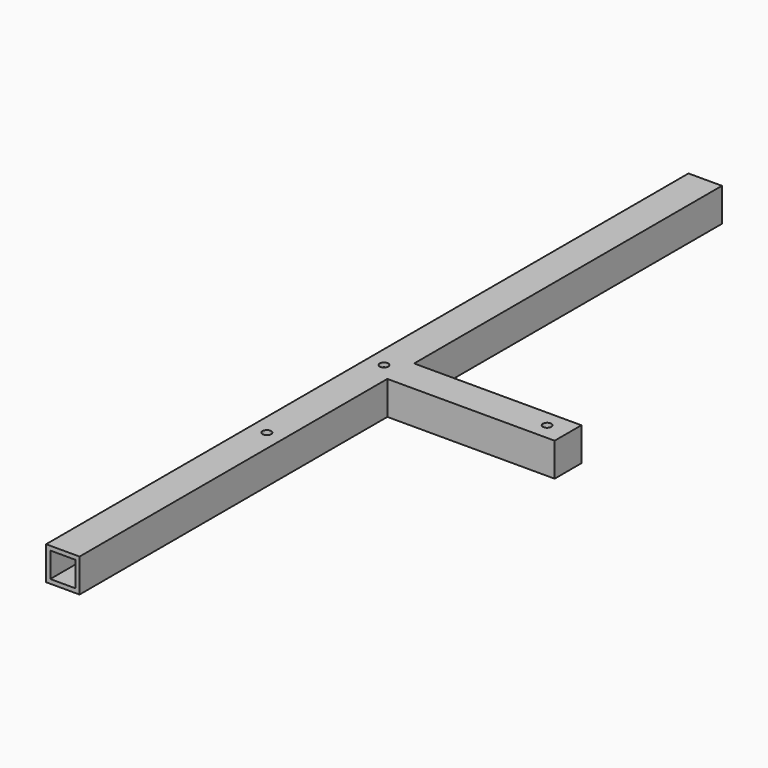
from build123d import *

# Parameters (mm, degrees)
F0_W     = 25.4
F0_H     = 25.4
F0_W_2   = 19.05
F0_H_2   = 19.05
F1_DEPTH = 304.8
F2_W     = 25.4
F2_H     = 25.4
F3_DEPTH = 127
F4_R     = 3.2512
F5_DEPTH = 25.401


with BuildPart() as f1:
    # F0 (on Front) → F1 (new body, symmetric)
    with BuildSketch(Plane.XZ):
        Rectangle(F0_W, F0_H)
        Rectangle(F0_W_2, F0_H_2, mode=Mode.SUBTRACT)
    extrude(amount=F1_DEPTH, both=True)

    # F2 (on face) → F3 (join)
    with BuildSketch(Plane.YZ.offset(12.7)):
        Rectangle(F2_W, F2_H)
    extrude(amount=F3_DEPTH)

    # F4 (on face) → F5 (cut, through all)
    with BuildSketch(Plane.XY.offset(12.7)):
        Circle(F4_R)
        with Locations((123.8504, 0)):
            Circle(F4_R)
        with Locations((0, -111.1504)):
            Circle(F4_R)
    extrude(amount=-F5_DEPTH, mode=Mode.SUBTRACT)


solid = f1.part
